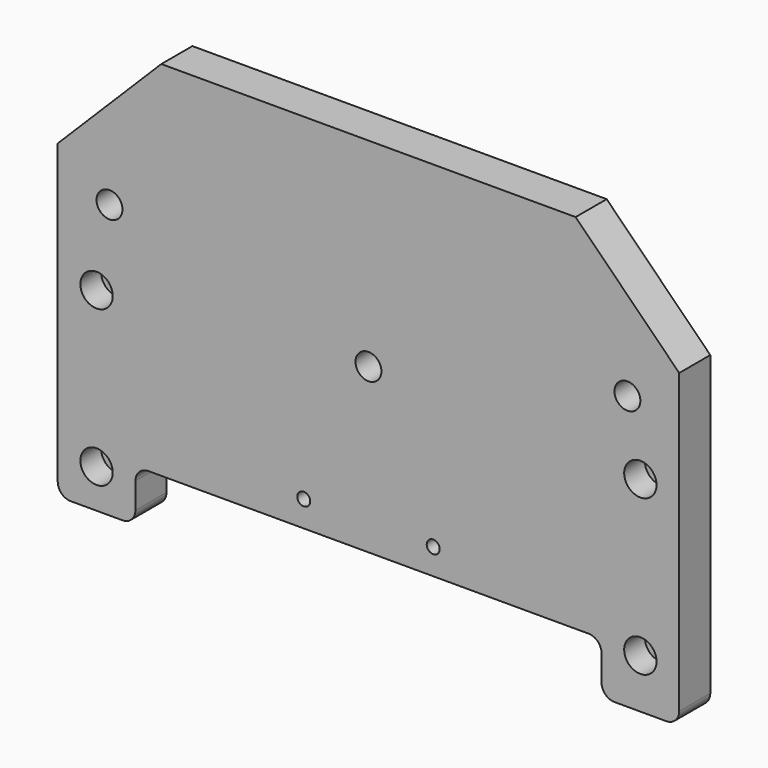
from build123d import *

# Parameters (mm, degrees)
F0_W            = 304.8
F0_H            = 203.2
F1_DEPTH        = 19.05
F2_W            = 228.6
F2_H            = 25.4
F3_DEPTH        = 19.051
F5_D            = 6.35
F6_R            = 6.35
F8_D            = 12.7
F9_R            = 6.35
F10_DEPTH       = 12.7
F12_D           = 9.525
F12_CBORE_D     = 15.875
F12_CBORE_DEPTH = 12.7
F13_SIZE        = 50.8


with BuildPart() as f1:
    # F0 (on Front) → F1 (new body)
    with BuildSketch(Plane.XZ):
        with Locations((152.4, 101.6)):
            Rectangle(F0_W, F0_H)
    extrude(amount=F1_DEPTH)

    # F2 (on face) → F3 (cut, through all)
    with BuildSketch(Plane.XZ.offset(19.05)):
        with Locations((152.4, 12.7)):
            Rectangle(F2_W, F2_H)
    extrude(amount=-F3_DEPTH, mode=Mode.SUBTRACT)

    # F5 (through all)
    with Locations(Plane.XZ.offset(19.05)):
        with Locations((120.65, 38.1), (184.15, 38.1)):
            Hole(F5_D / 2)

    # F6
    f6_edges = [f1.edges().sort_by_distance(p)[0] for p in [
        (38.1, -9.525, 0),
        (38.1, -9.525, 25.4),
        (0, -9.525, 0),
        (266.7, -9.525, 25.4),
        (266.7, -9.525, 0),
        (304.8, -9.525, 0),
    ]]
    fillet(f6_edges, radius=F6_R)

    # F8 (through all)
    with Locations(Plane.XZ.offset(19.05)):
        with Locations((152.4, 105.6132)):
            Hole(F8_D / 2)

    # F9 (on face) → F10 (cut)
    with BuildSketch(Plane.XZ.offset(19.05)):
        with Locations((25.4, 134.1882)):
            Circle(F9_R)
        with Locations((279.4, 134.1882)):
            Circle(F9_R)
    extrude(amount=-F10_DEPTH, mode=Mode.SUBTRACT)

    # F12 (through all)
    with Locations(Plane.XZ.offset(19.05)):
        with Locations((19.05, 95.25), (285.75, 100.3916049272), (285.75, 24.1916049272), (19.05, 19.05)):
            CounterBoreHole(F12_D / 2, F12_CBORE_D / 2, F12_CBORE_DEPTH)

    # F13
    f13_edges = [f1.edges().sort_by_distance(p)[0] for p in [
        (0, -9.525, 203.2),
        (304.8, -9.525, 203.2),
    ]]
    chamfer(f13_edges, length=F13_SIZE)


solid = f1.part
